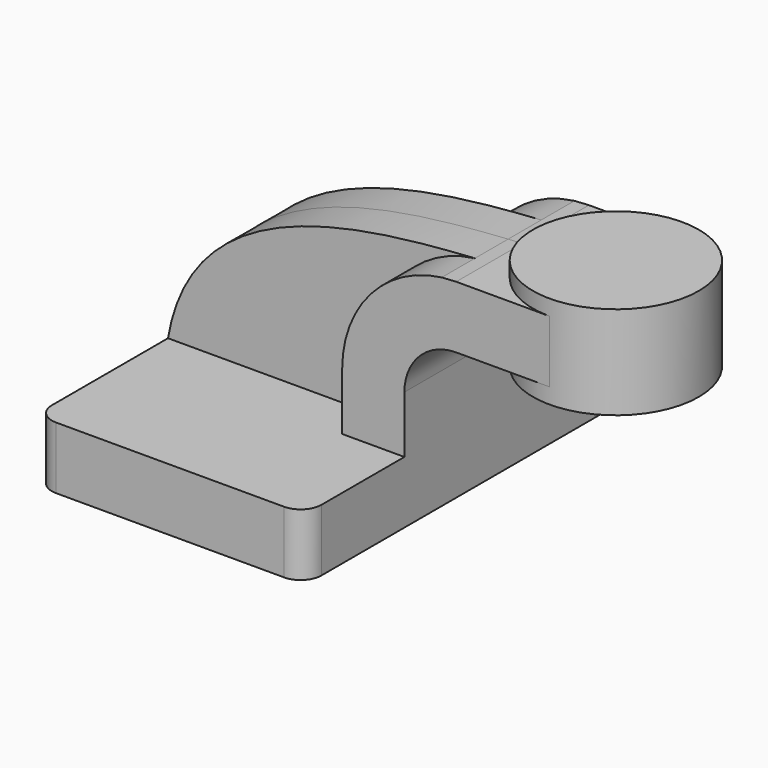
from build123d import *

# Parameters (mm, degrees)
F1_DEPTH = 63.5
F0_W     = 25.4
F0_H     = 19.05
F2_DEPTH = 25.4
F3_DEPTH = 12.7
F5_R     = 6.35


with BuildPart() as f1:
    # F0 (on Front) → F1 (new body, symmetric)
    with BuildSketch(Plane.XZ):
        Polygon((-41.275, 9.525), (-41.275, -9.525), (41.275, -9.525), (41.275, 9.525), (22.225, 9.525), align=None)
    extrude(amount=F1_DEPTH, both=True)

    # F0 (on Front) → F2 (join, symmetric)
    with BuildSketch(Plane.XZ):
        with BuildLine():
            Line((22.225, 9.525), (41.275, 9.525))
            Line((41.275, 9.525), (41.275, 27.0002))
            ThreePointArc((41.275, 27.0002), (45.9246798487, 38.2255201513), (57.15, 42.8752))
            Line((57.15, 42.8752), (60.325, 42.8752))
            Line((60.325, 42.8752), (60.325, 61.9252))
            Line((60.325, 61.9252), (57.15, 61.9252))
            add(Edge.make_bspline(
                [(52.7162948272, 61.6426289483), (54.2156735016, 61.7413710469), (55.6947752713, 61.83478936), (57.15, 61.9252)],
                knots=[107.1707379674, 107.1707379674, 107.1707379674, 107.1707379674, 111.5045361635, 111.5045361635, 111.5045361635, 111.5045361635], degree=3))
            ThreePointArc((52.7162948272, 61.6426289483), (30.9335664309, 50.0751699007), (22.225, 27.0002))
            Line((22.225, 27.0002), (22.225, 9.525))
        make_face()
        with Locations((73.025, 52.4002)):
            Rectangle(F0_W, F0_H)
    extrude(amount=F2_DEPTH, both=True)

    # F0 (on Front) → F3 (join, symmetric)
    with BuildSketch(Plane.XZ):
        with BuildLine():
            add(Edge.make_bspline(
                [(-41.275, 9.525), (-33.8400020092, 53.5033968776), (15.6380757311, 59.2008300709), (52.7162948272, 61.6426289483)],
                knots=[0, 0, 0, 0, 107.1707379674, 107.1707379674, 107.1707379674, 107.1707379674], degree=3))
            Line((-41.275, 9.525), (22.225, 9.525))
            Line((22.225, 9.525), (22.225, 27.0002))
            ThreePointArc((22.225, 27.0002), (30.9335664309, 50.0751699007), (52.7162948272, 61.6426289483))
        make_face()
    extrude(amount=F3_DEPTH, both=True)

    # F5
    f5_edges = [f1.edges().sort_by_distance(p)[0] for p in [
        (41.275, -63.5, 0),
        (-41.275, -63.5, 0),
        (-41.275, 63.5, 0),
        (41.275, 63.5, 0),
    ]]
    fillet(f5_edges, radius=F5_R)


with BuildPart() as f4:
    # F0 (on Front) → F4 (revolve)
    with BuildSketch(Plane.XZ):
        Polygon((85.725, 66.675), (85.725, 61.9252), (85.725, 42.8752), (85.725, 38.1), (111.125, 38.1), (111.125, 66.675), align=None)
    revolve(axis=Axis((85.725, 0, 52.3875), (0, 0, 1)))


solid = Compound([f1.part, f4.part])
